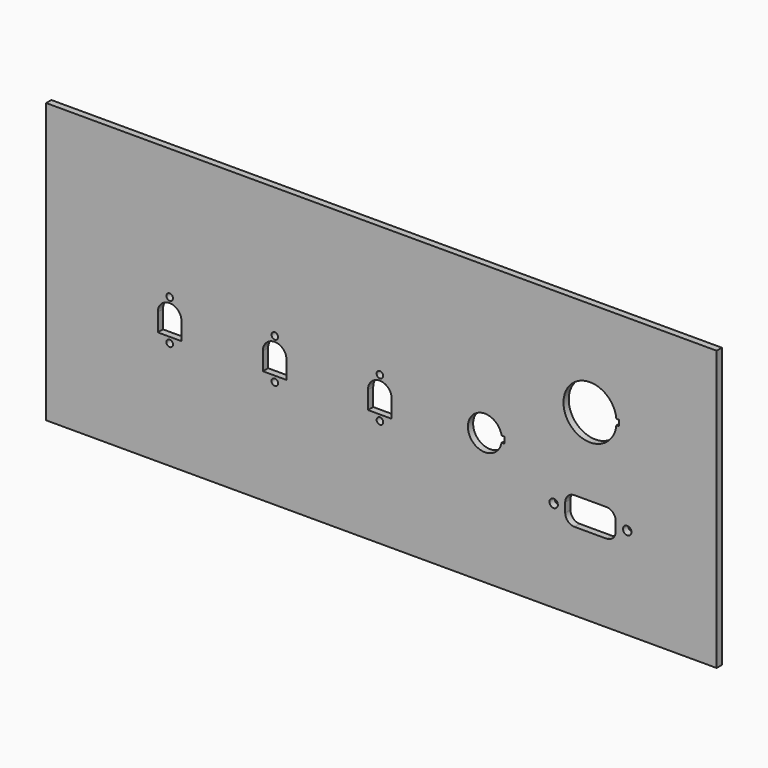
from build123d import *

# Parameters (mm, degrees)
F0_W     = 255.2
F0_H     = 106.3
F0_R     = 1.25
F0_R_2   = 1.6
F1_DEPTH = 2.5


with BuildPart() as f1:
    # F0 (on Front) → F1 (new body)
    with BuildSketch(Plane.XZ):
        with Locations((-7.879334, 3.072506)):
            Rectangle(F0_W, F0_H)
        with Locations((-88.437007, -9)):
            Circle(F0_R, mode=Mode.SUBTRACT)
        with BuildLine():
            ThreePointArc((-92.979334, 0), (-88.479334, 4.5), (-83.979334, 0))
            Line((-83.979334, 0), (-83.979334, -6.8))
            Line((-83.979334, -6.8), (-92.979334, -6.8))
            Line((-92.979334, -6.8), (-92.979334, 0))
        make_face(mode=Mode.SUBTRACT)
        with Locations((-48.437007, -9)):
            Circle(F0_R, mode=Mode.SUBTRACT)
        with BuildLine():
            Line((-52.979334, -6.8), (-52.979334, 0))
            ThreePointArc((-52.979334, 0), (-48.479334, 4.5), (-43.979334, 0))
            Line((-43.979334, 0), (-43.979334, -6.8))
            Line((-43.979334, -6.8), (-52.979334, -6.8))
        make_face(mode=Mode.SUBTRACT)
        with Locations((-8.437007, -9)):
            Circle(F0_R, mode=Mode.SUBTRACT)
        with BuildLine():
            Line((-12.979334, -6.8), (-12.979334, 0))
            ThreePointArc((-12.979334, 0), (-8.479334, 4.5), (-3.979334, 0))
            Line((-3.979334, 0), (-3.979334, -6.8))
            Line((-3.979334, -6.8), (-12.979334, -6.8))
        make_face(mode=Mode.SUBTRACT)
        with BuildLine():
            ThreePointArc((37.883497, -1.2), (25.045666, 0), (37.883497, 1.2))
            Line((37.883497, 1.2), (39.045666, 1.2))
            Line((39.045666, 1.2), (39.045666, -1.2))
            Line((39.045666, -1.2), (37.883497, -1.2))
        make_face(mode=Mode.SUBTRACT)
        with Locations((57.686061, -15.077494)):
            Circle(F0_R_2, mode=Mode.SUBTRACT)
        with BuildLine():
            ThreePointArc((81.286061, -16.877494), (80.260934, -19.352368), (77.786061, -20.377494))
            Line((77.786061, -20.377494), (65.586061, -20.377494))
            ThreePointArc((65.586061, -20.377494), (63.111187, -19.352368), (62.086061, -16.877494))
            Line((62.086061, -16.877494), (62.086061, -13.277494))
            ThreePointArc((62.086061, -13.277494), (63.111187, -10.802621), (65.586061, -9.777494))
            Line((65.586061, -9.777494), (77.786061, -9.777494))
            ThreePointArc((77.786061, -9.777494), (80.260934, -10.802621), (81.286061, -13.277494))
            Line((81.286061, -13.277494), (81.286061, -16.877494))
        make_face(mode=Mode.SUBTRACT)
        with Locations((85.686061, -15.077494)):
            Circle(F0_R_2, mode=Mode.SUBTRACT)
        with Locations((-88.437007, 6.5)):
            Circle(F0_R, mode=Mode.SUBTRACT)
        with Locations((-48.437007, 6.5)):
            Circle(F0_R, mode=Mode.SUBTRACT)
        with Locations((-8.437007, 6.5)):
            Circle(F0_R, mode=Mode.SUBTRACT)
        with BuildLine():
            ThreePointArc((81.560586, 18.822506), (61.420666, 19.922506), (81.560586, 21.022506))
            Line((81.560586, 21.022506), (82.520666, 21.022506))
            Line((82.520666, 21.022506), (82.520666, 18.822506))
            Line((82.520666, 18.822506), (81.560586, 18.822506))
        make_face(mode=Mode.SUBTRACT)
    extrude(amount=-F1_DEPTH)


solid = f1.part
